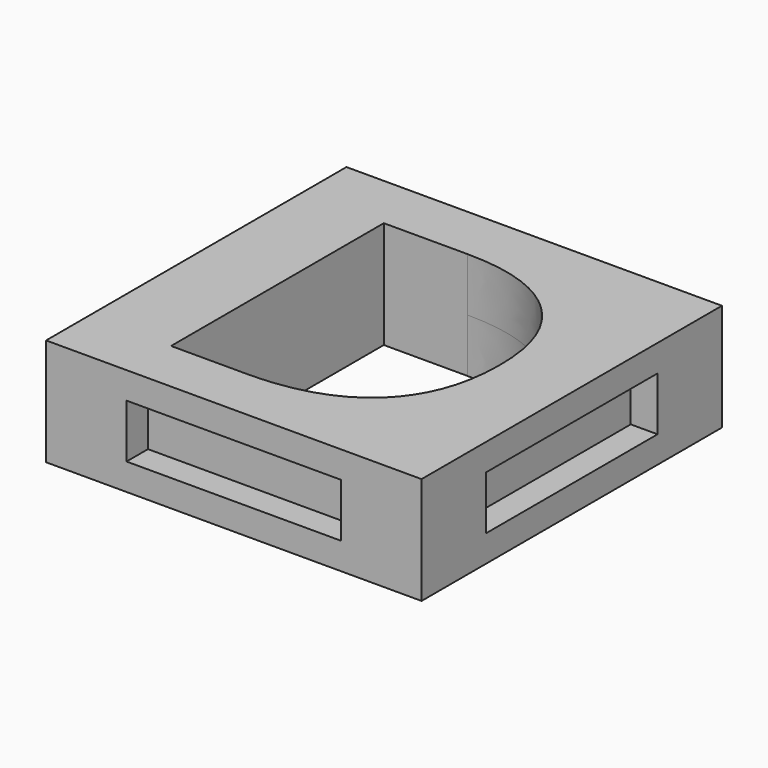
from build123d import *

# Parameters (mm, degrees)
F0_W     = 35.56
F0_H     = 35.56
F1_DEPTH = 5.08
F2_W     = 19.812
F2_H     = 4.572
F3_DEPTH = 2.54
F4_W     = 19.812
F4_H     = 4.572
F5_DEPTH = 2.54
F6_W     = 20.32
F6_H     = 5.08
F7_DEPTH = 2.54
F8_W     = 20.32
F8_H     = 5.08
F9_DEPTH = 2.54


with BuildPart() as f1:
    # F0 (on Top) → F1 (new body, symmetric)
    with BuildSketch(Plane.XY):
        Rectangle(F0_W, F0_H)
        with BuildLine():
            add(Edge.make_bspline(
                [(7.4772352431, 9.2300998264), (10.8892578125, 5.9751736111), (10.8892578125, 0.1322916667)],
                knots=[0, 0, 0, 1, 1, 1], degree=2))
            add(Edge.make_bspline(
                [(10.8892578125, 0.1322916667), (10.8892578125, -6.0854166667), (7.3476996528, -9.3927083333)],
                knots=[0, 0, 0, 1, 1, 1], degree=2))
            add(Edge.make_bspline(
                [(7.3476996528, -9.3927083333), (3.8061414931, -12.7), (-2.8745876736, -12.7)],
                knots=[0, 0, 0, 1, 1, 1], degree=2))
            Line((-2.8745876736, -12.7), (-10.0073133681, -12.7))
            Line((-10.0073133681, -12.7), (-10.0073133681, 12.4850260417))
            Line((-10.0073133681, 12.4850260417), (-2.1028862847, 12.4850260417))
            add(Edge.make_bspline(
                [(-2.1028862847, 12.4850260417), (4.0652126736, 12.4850260417), (7.4772352431, 9.2300998264)],
                knots=[0, 0, 0, 1, 1, 1], degree=2))
        make_face(mode=Mode.SUBTRACT)
    extrude(amount=F1_DEPTH, both=True)

    # F2 (on face) → F3 (join)
    with BuildSketch(Plane(origin=(0, 17.78, 0), x_dir=(-1, 0, 0), z_dir=(0, 1, 0))):
        Rectangle(F2_W, F2_H)
    extrude(amount=F3_DEPTH)

    # F4 (on face) → F5 (join)
    with BuildSketch(Plane(origin=(-17.78, 0, 0), x_dir=(0, -1, 0), z_dir=(-1, 0, 0))):
        Rectangle(F4_W, F4_H)
    extrude(amount=F5_DEPTH)

    # F6 (on face) → F7 (cut)
    with BuildSketch(Plane.XZ.offset(17.78)):
        Rectangle(F6_W, F6_H)
    extrude(amount=-F7_DEPTH, mode=Mode.SUBTRACT)

    # F8 (on face) → F9 (cut)
    with BuildSketch(Plane.YZ.offset(17.78)):
        Rectangle(F8_W, F8_H)
    extrude(amount=-F9_DEPTH, mode=Mode.SUBTRACT)


solid = f1.part
